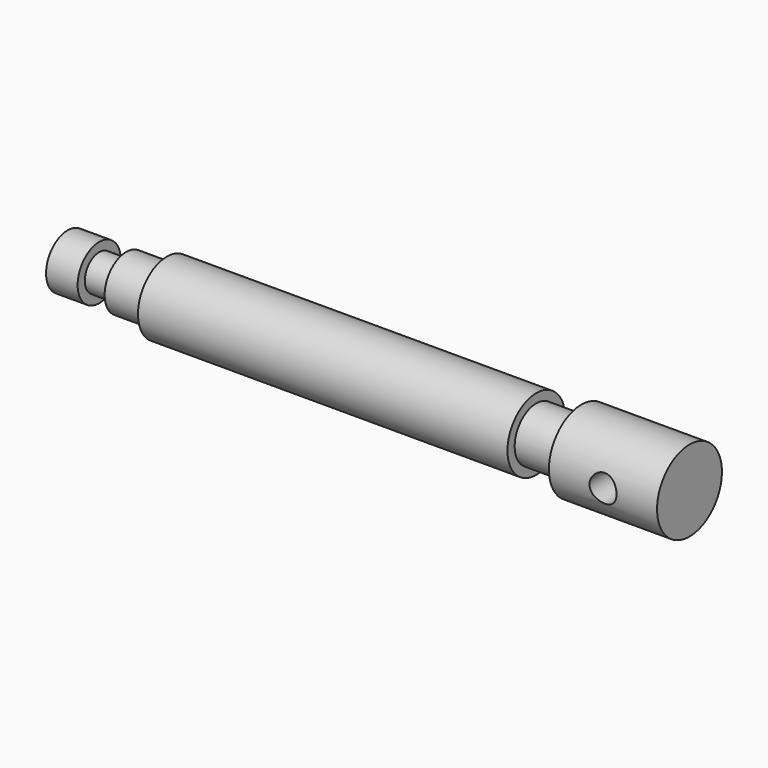
from build123d import *

# Parameters (mm, degrees)
F2_DEPTH = 12.5


with BuildPart() as f1:
    # F0 (on Front) → F1 (revolve)
    with BuildSketch(Plane.XZ):
        with BuildLine():
            Line((-69, 6), (-69, 0))
            Line((-69, 0), (54, 0))
            ThreePointArc((54, 0), (57, 3), (60, 0))
            Line((60, 0), (69, 0))
            Line((69, 0), (69, 9))
            Line((69, 9), (45, 9))
            Line((45, 9), (45, 6))
            Line((45, 6), (35, 6))
            Line((35, 6), (35, 8))
            Line((35, 8), (-47, 8))
            Line((-47, 8), (-47, 6))
            Line((-47, 6), (-56, 6))
            Line((-56, 6), (-56, 4))
            Line((-56, 4), (-62, 4))
            Line((-62, 4), (-62, 6))
            Line((-62, 6), (-69, 6))
        make_face()
        with BuildLine():
            ThreePointArc((60, 0), (57, 3), (54, 0))
            Line((54, 0), (60, 0))
        make_face()
    revolve(axis=Axis((0, 0, 0), (-1, 0, 0)))

    # F0 (on Front) → F2 (cut, symmetric)
    with BuildSketch(Plane.XZ):
        with BuildLine():
            Line((60, 0), (54, 0))
            ThreePointArc((54, 0), (57, -3), (60, 0))
        make_face()
        with BuildLine():
            ThreePointArc((60, 0), (57, 3), (54, 0))
            Line((54, 0), (60, 0))
        make_face()
    extrude(amount=F2_DEPTH, both=True, mode=Mode.SUBTRACT)


solid = f1.part
